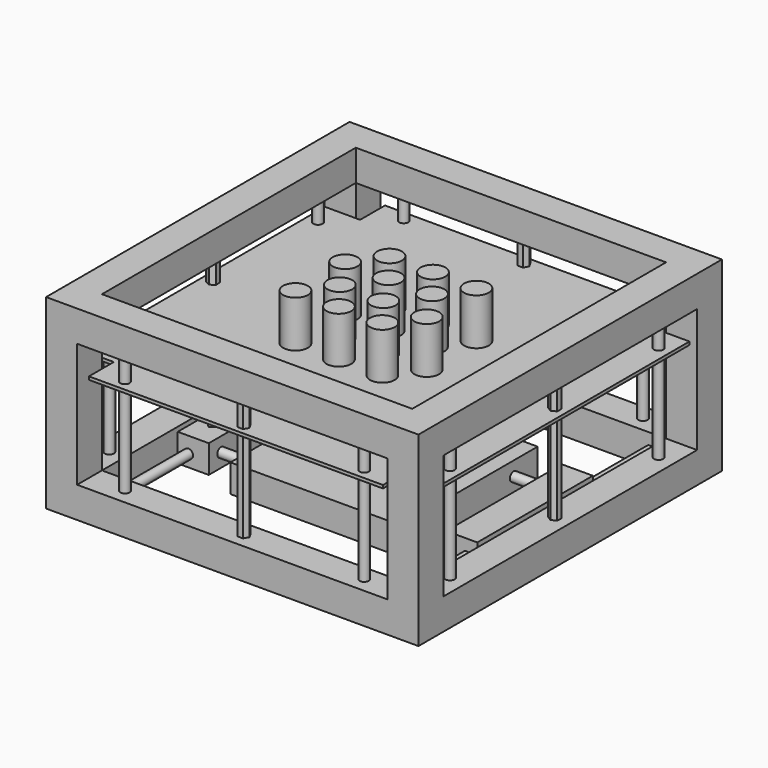
from build123d import *

# Parameters (mm, degrees)
F0_W      = 120
F0_H      = 122.2440914744
F0_W_2    = 100
F0_H_2    = 102.2440914744
F1_DEPTH  = 10
F2_W      = 10
F2_H      = 10
F3_DEPTH  = 40
F4_W      = 120
F4_H      = 122.2440914744
F4_W_2    = 100
F4_H_2    = 102.2440914744
F5_DEPTH  = 10
F6_R      = 1.5
F7_DEPTH  = 102.2440914744
F8_R      = 1.5
F9_DEPTH  = 50
F11_R     = 1.5
F12_DEPTH = 1
F13_R     = 4
F14_DEPTH = 15
F15_R     = 0.5
F16_DEPTH = 10
F17_W     = 9.9953822792
F17_H     = 46.5456657112
F18_DEPTH = 9
F19_R     = 1.5
F20_DEPTH = 76.5405446291
F21_W     = 55
F21_H     = 55
F22_DEPTH = 9
F24_DEPTH = 3
F26_DEPTH = 3


with BuildPart() as f1:
    # F0 (on Top) → F1 (new body)
    with BuildSketch(Plane.XY):
        Rectangle(F0_W, F0_H)
        Rectangle(F0_W_2, F0_H_2, mode=Mode.SUBTRACT)
    extrude(amount=F1_DEPTH)

    # F2 (on face) → F3 (join)
    with BuildSketch(Plane.XY.offset(10)):
        with Locations((-55, 56.1220457372)):
            Rectangle(F2_W, F2_H)
        with Locations((55, 56.1220457372)):
            Rectangle(F2_W, F2_H)
        with Locations((55, -56.1220457372)):
            Rectangle(F2_W, F2_H)
        with Locations((-55, -56.1220457372)):
            Rectangle(F2_W, F2_H)
    extrude(amount=F3_DEPTH)

    # F4 (on face) → F5 (join)
    with BuildSketch(Plane.XY.offset(50)):
        Rectangle(F4_W, F4_H)
        Rectangle(F4_W_2, F4_H_2, mode=Mode.SUBTRACT)
    extrude(amount=F5_DEPTH)

    # F6 (on face) → F7 (join, through all)
    with BuildSketch(Plane.XZ.offset(-51.1220457372)):
        with Locations((-44.8297597468, 4.8616835847)):
            Circle(F6_R)
        with Locations((44.8297597468, 4.8616835847)):
            Circle(F6_R)
    extrude(amount=F7_DEPTH)

    # F8 (on face) → F9 (join, through all)
    with BuildSketch(Plane.XY.offset(60)):
        with Locations((-38.5565124452, 56.1604984105)):
            Circle(F8_R)
        with Locations((-54.889626801, 42.0289896429)):
            Circle(F8_R)
        with Locations((38.5565124452, 56.1604984105)):
            Circle(F8_R)
        with Locations((-54.889626801, -42.0289896429)):
            Circle(F8_R)
        with Locations((54.889626801, 42.0289896429)):
            Circle(F8_R)
        with Locations((54.889626801, -42.0289896429)):
            Circle(F8_R)
        with Locations((-38.5565124452, -56.1604984105)):
            Circle(F8_R)
        with Locations((38.5565124452, -56.1604984105)):
            Circle(F8_R)
        Polygon((-0.8660254038, 54.8717186451), (0.8660254038, 54.8717186451), (1.7320508076, 56.3717186451), (0.8660254038, 57.8717186451), (-0.8660254038, 57.8717186451), (-1.7320508076, 56.3717186451), align=None)
        Polygon((-53.6243858521, 0.9424054886), (-55.1684839146, 1.7320508076), (-56.6243858521, 0.789645319), (-56.536189727, -0.9424054886), (-54.9920916645, -1.7320508076), (-53.536189727, -0.789645319), align=None)
        Polygon((-1.7320508076, -56.3717186451), (-0.8660254038, -57.8717186451), (0.8660254038, -57.8717186451), (1.7320508076, -56.3717186451), (0.8660254038, -54.8717186451), (-0.8660254038, -54.8717186451), align=None)
        Polygon((56.536189727, -0.9424054886), (56.6243858521, 0.789645319), (55.1684839146, 1.7320508076), (53.6243858521, 0.9424054886), (53.536189727, -0.789645319), (54.9920916645, -1.7320508076), align=None)
    extrude(amount=-F9_DEPTH)

    # F11 (on offset) → F12 (join)
    with BuildSketch(Plane.XY.offset(40)):
        Polygon((47.3839566112, 49.6162511408), (47.3839566112, 59.6322901547), (-47.3839566112, 59.6322901547), (-47.3839566112, 49.6162511408), (-58.7475039065, 49.6162511408), (-58.7475039065, -49.6162511408), (-47.3839566112, -49.6162511408), (-47.3839566112, -59.6322901547), (47.3839566112, -59.6322901547), (47.3839566112, -49.6162511408), (58.7475039065, -49.6162511408), (58.7475039065, 49.6162511408), align=None)
        with Locations((-38.5565124452, -56.1604984105)):
            Circle(F11_R, mode=Mode.SUBTRACT)
        with Locations((-54.889626801, -42.0289896429)):
            Circle(F11_R, mode=Mode.SUBTRACT)
        with Locations((-18.0552382939, -13.0908529634)):
            Circle(F11_R, mode=Mode.SUBTRACT)
        with Locations((-4.0552382939, -13.0908529634)):
            Circle(F11_R, mode=Mode.SUBTRACT)
        with Locations((-11.2857086337, -3.6699029977)):
            Circle(F11_R, mode=Mode.SUBTRACT)
        with Locations((38.5565124452, -56.1604984105)):
            Circle(F11_R, mode=Mode.SUBTRACT)
        with Locations((54.889626801, -42.0289896429)):
            Circle(F11_R, mode=Mode.SUBTRACT)
        with Locations((9.9447617061, -13.0908529634)):
            Circle(F11_R, mode=Mode.SUBTRACT)
        with Locations((2.7142913663, -3.6699029977)):
            Circle(F11_R, mode=Mode.SUBTRACT)
        with Locations((16.7142913663, -3.6699029977)):
            Circle(F11_R, mode=Mode.SUBTRACT)
        with Locations((-18.0552382939, 6.9091470366)):
            Circle(F11_R, mode=Mode.SUBTRACT)
        with Locations((-4.0552382939, 6.9091470366)):
            Circle(F11_R, mode=Mode.SUBTRACT)
        with Locations((-11.2857086337, 16.3300970023)):
            Circle(F11_R, mode=Mode.SUBTRACT)
        with Locations((-54.889626801, 42.0289896429)):
            Circle(F11_R, mode=Mode.SUBTRACT)
        with Locations((-38.5565124452, 56.1604984105)):
            Circle(F11_R, mode=Mode.SUBTRACT)
        with Locations((9.9447617061, 6.9091470366)):
            Circle(F11_R, mode=Mode.SUBTRACT)
        with Locations((2.7142913663, 16.3300970023)):
            Circle(F11_R, mode=Mode.SUBTRACT)
        with Locations((16.7142913663, 16.3300970023)):
            Circle(F11_R, mode=Mode.SUBTRACT)
        with Locations((54.889626801, 42.0289896429)):
            Circle(F11_R, mode=Mode.SUBTRACT)
        with Locations((38.5565124452, 56.1604984105)):
            Circle(F11_R, mode=Mode.SUBTRACT)
    extrude(amount=F12_DEPTH)

    # F13 (on face) → F14 (join)
    with BuildSketch(Plane.XY.offset(41)):
        with Locations((-11.2857086337, 16.3300970023)):
            Circle(F13_R)
        with Locations((2.7142913663, 16.3300970023)):
            Circle(F13_R)
        with Locations((16.7142913663, 16.3300970023)):
            Circle(F13_R)
        with Locations((-18.0552382939, 6.9091470366)):
            Circle(F13_R)
        with Locations((-4.0552382939, 6.9091470366)):
            Circle(F13_R)
        with Locations((9.9447617061, 6.9091470366)):
            Circle(F13_R)
        with Locations((-11.2857086337, -3.6699029977)):
            Circle(F13_R)
        with Locations((-18.0552382939, -13.0908529634)):
            Circle(F13_R)
        with Locations((2.7142913663, -3.6699029977)):
            Circle(F13_R)
        with Locations((16.7142913663, -3.6699029977)):
            Circle(F13_R)
        with Locations((-4.0552382939, -13.0908529634)):
            Circle(F13_R)
        with Locations((9.9447617061, -13.0908529634)):
            Circle(F13_R)
    extrude(amount=F14_DEPTH)

    # F17 (on face) → F18 (join)
    with BuildSketch(Plane.XY.offset(10)):
        with Locations((-43.2679634541, 0.5196481943)):
            Rectangle(F17_W, F17_H)
        with Locations((43.2679634541, 0.5196481943)):
            Rectangle(F17_W, F17_H)
    extrude(amount=-F18_DEPTH)

    # F19 (on face) → F20 (join, through all)
    with BuildSketch(Plane.YZ.offset(-38.2702723145)):
        with Locations((-17.833603546, 5.4407967255)):
            Circle(F19_R)
        with Locations((17.833603546, 5.4407967255)):
            Circle(F19_R)
    extrude(amount=F20_DEPTH)

    # F21 (on face) → F22 (join)
    with BuildSketch(Plane.XY.offset(10)):
        Rectangle(F21_W, F21_H)
    extrude(amount=-F22_DEPTH)

    # F23 (on face) → F24 (cut)
    with BuildSketch(Plane.XY.offset(10)):
        Polygon((-7.5027891435, -2.722252626), (0, -2.722252626), (7.5027891435, -2.722252626), (7.5027891435, -5.2088219672), (12.8311524168, 0), (7.5027891435, 5.2088219672), (7.5027891435, 2.722252626), (0, 2.722252626), (-7.5027891435, 2.722252626), (-7.5027891435, 5.2088219672), (-12.8311524168, 0), (-7.5027891435, -5.2088219672), align=None)
    extrude(amount=-F24_DEPTH, mode=Mode.SUBTRACT)

    # F25 (on face) → F26 (cut)
    with BuildSketch(Plane.XY.offset(10)):
        Polygon((-42.4776822329, -12.9941236228), (-42.4776822329, -3.1946639065), (-42.4776822329, 6.6047958098), (-40.7139211893, 6.6047958098), (-43.819591403, 9.5640043728), (-46.6392453639, 6.6047958098), (-44.9430458248, 6.6047958098), (-44.9430458248, -3.1946639065), (-44.9430458248, -12.9941236228), (-46.6392453639, -12.9941236228), (-43.819591403, -15.9533321857), (-40.7139211893, -12.9941236228), align=None)
    extrude(amount=-F26_DEPTH, mode=Mode.SUBTRACT)


with BuildPart() as f16:
    # F15 (on face) → F16 (new body)
    with BuildSketch(Plane(origin=(0, 0, 40), x_dir=(1, 0, 0), z_dir=(0, 0, -1))):
        with Locations((-18.0552382939, 13.0908529634)):
            Circle(F15_R)
    extrude(amount=F16_DEPTH)


with BuildPart() as f16b:
    # F15 (on face) → F16, piece 2 (new body)
    with BuildSketch(Plane(origin=(0, 0, 40), x_dir=(1, 0, 0), z_dir=(0, 0, -1))):
        with Locations((-4.0552382939, 13.0908529634)):
            Circle(F15_R)
    extrude(amount=F16_DEPTH)


with BuildPart() as f16c:
    # F15 (on face) → F16, piece 3 (new body)
    with BuildSketch(Plane(origin=(0, 0, 40), x_dir=(1, 0, 0), z_dir=(0, 0, -1))):
        with Locations((9.9447617061, 13.0908529634)):
            Circle(F15_R)
    extrude(amount=F16_DEPTH)


with BuildPart() as f16d:
    # F15 (on face) → F16, piece 4 (new body)
    with BuildSketch(Plane(origin=(0, 0, 40), x_dir=(1, 0, 0), z_dir=(0, 0, -1))):
        with Locations((-11.2857086337, 3.6699029977)):
            Circle(F15_R)
    extrude(amount=F16_DEPTH)


with BuildPart() as f16e:
    # F15 (on face) → F16, piece 5 (new body)
    with BuildSketch(Plane(origin=(0, 0, 40), x_dir=(1, 0, 0), z_dir=(0, 0, -1))):
        with Locations((2.7142913663, 3.6699029977)):
            Circle(F15_R)
    extrude(amount=F16_DEPTH)


with BuildPart() as f16f:
    # F15 (on face) → F16, piece 6 (new body)
    with BuildSketch(Plane(origin=(0, 0, 40), x_dir=(1, 0, 0), z_dir=(0, 0, -1))):
        with Locations((16.7142913663, 3.6699029977)):
            Circle(F15_R)
    extrude(amount=F16_DEPTH)


with BuildPart() as f16g:
    # F15 (on face) → F16, piece 7 (new body)
    with BuildSketch(Plane(origin=(0, 0, 40), x_dir=(1, 0, 0), z_dir=(0, 0, -1))):
        with Locations((-18.0552382939, -6.9091470366)):
            Circle(F15_R)
    extrude(amount=F16_DEPTH)


with BuildPart() as f16h:
    # F15 (on face) → F16, piece 8 (new body)
    with BuildSketch(Plane(origin=(0, 0, 40), x_dir=(1, 0, 0), z_dir=(0, 0, -1))):
        with Locations((-4.0552382939, -6.9091470366)):
            Circle(F15_R)
    extrude(amount=F16_DEPTH)


with BuildPart() as f16i:
    # F15 (on face) → F16, piece 9 (new body)
    with BuildSketch(Plane(origin=(0, 0, 40), x_dir=(1, 0, 0), z_dir=(0, 0, -1))):
        with Locations((9.9447617061, -6.9091470366)):
            Circle(F15_R)
    extrude(amount=F16_DEPTH)


with BuildPart() as f16j:
    # F15 (on face) → F16, piece 10 (new body)
    with BuildSketch(Plane(origin=(0, 0, 40), x_dir=(1, 0, 0), z_dir=(0, 0, -1))):
        with Locations((-11.2857086337, -16.3300970023)):
            Circle(F15_R)
    extrude(amount=F16_DEPTH)


with BuildPart() as f16k:
    # F15 (on face) → F16, piece 11 (new body)
    with BuildSketch(Plane(origin=(0, 0, 40), x_dir=(1, 0, 0), z_dir=(0, 0, -1))):
        with Locations((2.7142913663, -16.3300970023)):
            Circle(F15_R)
    extrude(amount=F16_DEPTH)


with BuildPart() as f16l:
    # F15 (on face) → F16, piece 12 (new body)
    with BuildSketch(Plane(origin=(0, 0, 40), x_dir=(1, 0, 0), z_dir=(0, 0, -1))):
        with Locations((16.7142913663, -16.3300970023)):
            Circle(F15_R)
    extrude(amount=F16_DEPTH)


solid = Compound([f1.part, f16.part, f16b.part, f16c.part, f16d.part, f16e.part, f16f.part, f16g.part, f16h.part, f16i.part, f16j.part, f16k.part, f16l.part])
